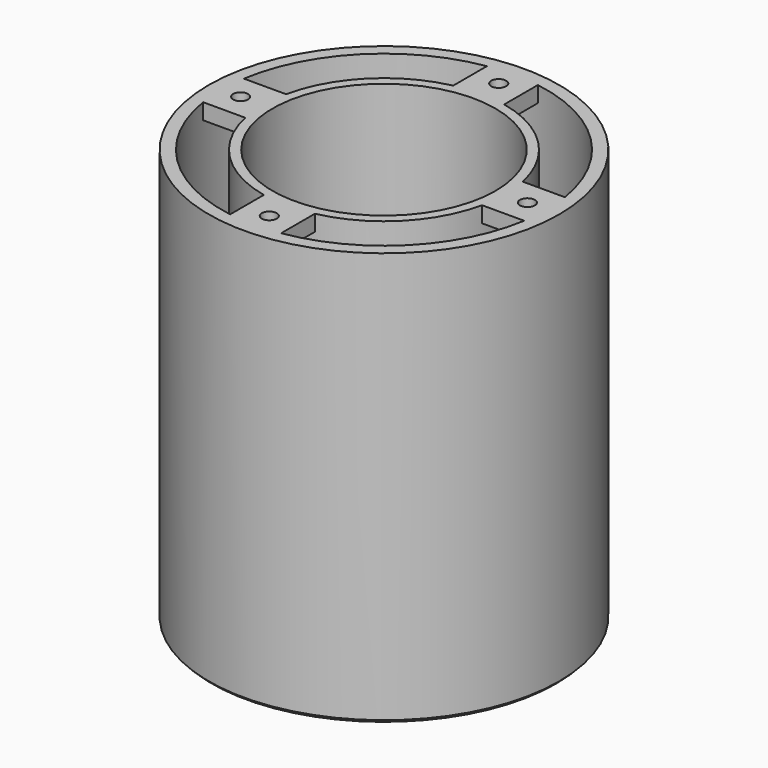
from build123d import *

# Parameters (mm, degrees)
BOX_W             = 16
BOX_H             = 108
BOX_DEPTH         = 10
BOX001_W          = 128
BOX001_H          = 16
BOX001_DEPTH      = 10
CYLINDER001_R     = 38
CYLINDER001_DEPTH = 10
CYLINDER_R        = 51
CYLINDER_DEPTH    = 10
SKETCH001_R       = 51
SKETCH001_R_2     = 38
PAD001_DEPTH      = 120
SKETCH_R          = 55
SKETCH_R_2        = 35
PAD_DEPTH         = 130
SKETCH002_R       = 2.35
POCKET_DEPTH      = 5
CHAMFER_SIZE      = 1


with BuildPart() as cube:
    # Box → Box (new body)
    with BuildSketch(Plane(origin=(-8, -56, 0), x_dir=(1, 0, 0), z_dir=(0, 0, 1))):
        with Locations((8, 54)):
            Rectangle(BOX_W, BOX_H)
    extrude(amount=BOX_DEPTH)


with BuildPart() as fusion:
    # Box001 → Box001 (new body)
    with BuildSketch(Plane(origin=(-56, -8, 0), x_dir=(1, 0, 0), z_dir=(0, 0, 1))):
        with Locations((64, 8)):
            Rectangle(BOX001_W, BOX001_H)
    extrude(amount=BOX001_DEPTH)

    # Fusion: union Cube
    add(cube.part)


with BuildPart() as cylinder001:
    # Cylinder001 → Cylinder001 (new body)
    with BuildSketch(Plane.XY):
        Circle(CYLINDER001_R)
    extrude(amount=CYLINDER001_DEPTH)


with BuildPart() as cut002:
    # Cylinder → Cylinder (new body)
    with BuildSketch(Plane.XY):
        Circle(CYLINDER_R)
    extrude(amount=CYLINDER_DEPTH)

    # Cut001: cut Cylinder001
    add(cylinder001.part, mode=Mode.SUBTRACT)

    # Cut002: cut Fusion
    add(fusion.part, mode=Mode.SUBTRACT)


with BuildPart() as cut002_1:
    # Cut002 placement: moved
    add(cut002.part.moved(Location((0, 0, 123))))


with BuildPart() as body001:
    # Sketch001 → Pad001 (new body)
    with BuildSketch(Plane.XY):
        Circle(SKETCH001_R)
        Circle(SKETCH001_R_2, mode=Mode.SUBTRACT)
    extrude(amount=PAD001_DEPTH)


with BuildPart() as body001_1:
    # Body001 placement: moved
    add(body001.part.moved(Location((0, 0, 5))))


with BuildPart() as chamfer_body:
    # Sketch → Pad (new body)
    with BuildSketch(Plane.XY):
        Circle(SKETCH_R)
        Circle(SKETCH_R_2, mode=Mode.SUBTRACT)
    extrude(amount=PAD_DEPTH)

    # Sketch002 (on Face4 of Pad) → Pocket (cut)
    with BuildSketch(Plane.XY.offset(130)):
        with Locations((-45, 0)):
            Circle(SKETCH002_R)
        with Locations((45, 0)):
            Circle(SKETCH002_R)
        with Locations((0, 45)):
            Circle(SKETCH002_R)
        with Locations((0, -45)):
            Circle(SKETCH002_R)
    extrude(amount=-POCKET_DEPTH, mode=Mode.SUBTRACT)

    # Cut: cut Body001
    add(body001_1.part, mode=Mode.SUBTRACT)

    # Cut003: cut Cut002
    add(cut002_1.part, mode=Mode.SUBTRACT)


with BuildPart() as chamfer_body_1:
    # Cut003 placement: moved
    add(chamfer_body.part.moved(Location((-155, 0, 0))))

    # Chamfer
    chamfer_edges = [chamfer_body_1.edges().sort_by_distance(p)[0] for p in [
        (-210, 0, 0),
        (-190, 0, 0),
    ]]
    chamfer(chamfer_edges, length=CHAMFER_SIZE)


solid = chamfer_body_1.part
